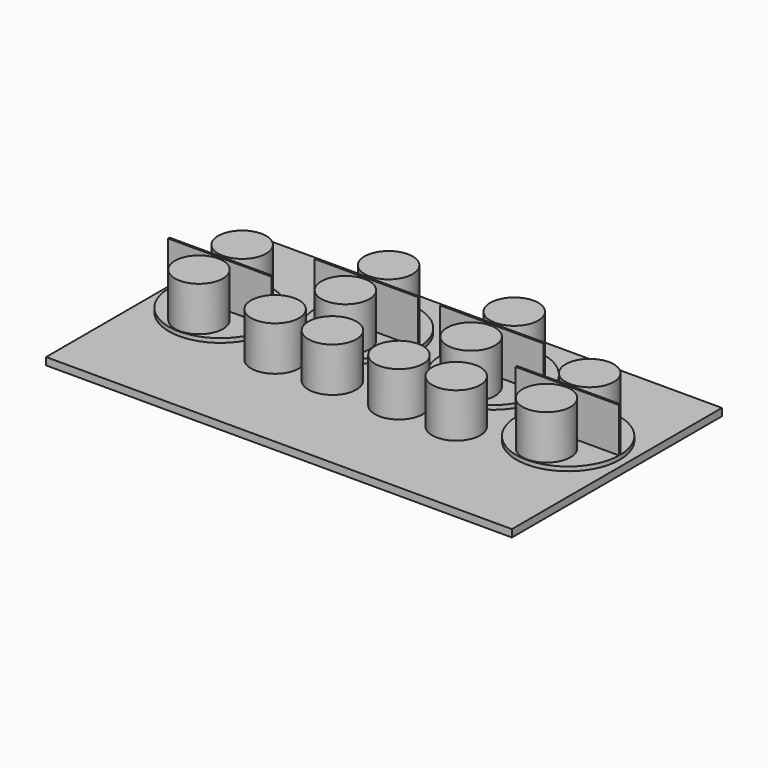
from build123d import *

# Parameters (mm, degrees)
F0_W     = 1600.2
F0_H     = 901.7
F1_DEPTH = 25.4
F2_R     = 177.8
F3_DEPTH = 14.3002
F4_W     = 355.5433
F4_H     = 6.35
F4_R     = 82.55
F5_DEPTH = 152.4
F6_R     = 82.55
F7_DEPTH = 152.4


with BuildPart() as f1:
    # F0 (on Top) → F1 (new body)
    with BuildSketch(Plane.XY):
        with Locations((0, -450.85)):
            Rectangle(F0_W, F0_H)
    extrude(amount=-F1_DEPTH)

    # F2 (on face) → F3 (join)
    with BuildSketch(Plane.XY):
        with Locations((-596.9, -406.4)):
            Circle(F2_R)
        with Locations((-215.9, -254)):
            Circle(F2_R)
        with Locations((215.9, -254)):
            Circle(F2_R)
        with Locations((596.9, -406.4)):
            Circle(F2_R)
    extrude(amount=F3_DEPTH)

    # F4 (on face) → F5 (join)
    with BuildSketch(Plane.XY.offset(14.3002)):
        with Locations((-596.9, -406.4)):
            Rectangle(F4_W, F4_H)
        with Locations((-215.9, -254)):
            Rectangle(F4_W, F4_H)
        with Locations((215.9, -254)):
            Rectangle(F4_W, F4_H)
        with Locations((596.9, -406.4)):
            Rectangle(F4_W, F4_H)
        with Locations((-596.9, -499.11)):
            Circle(F4_R)
        with Locations((-596.9, -313.69)):
            Circle(F4_R)
        with Locations((-215.9, -161.29)):
            Circle(F4_R)
        with Locations((-215.9, -346.71)):
            Circle(F4_R)
        with Locations((215.9, -346.71)):
            Circle(F4_R)
        with Locations((215.9, -161.29)):
            Circle(F4_R)
        with Locations((596.9, -313.69)):
            Circle(F4_R)
        with Locations((596.9, -499.11)):
            Circle(F4_R)
    extrude(amount=F5_DEPTH)

    # F6 (on face) → F7 (join)
    with BuildSketch(Plane.XY):
        with Locations((-311.15, -529.59)):
            Circle(F6_R)
        with Locations((-114.3, -529.59)):
            Circle(F6_R)
        with Locations((114.3, -529.59)):
            Circle(F6_R)
        with Locations((311.15, -529.59)):
            Circle(F6_R)
    extrude(amount=F7_DEPTH)


solid = f1.part
